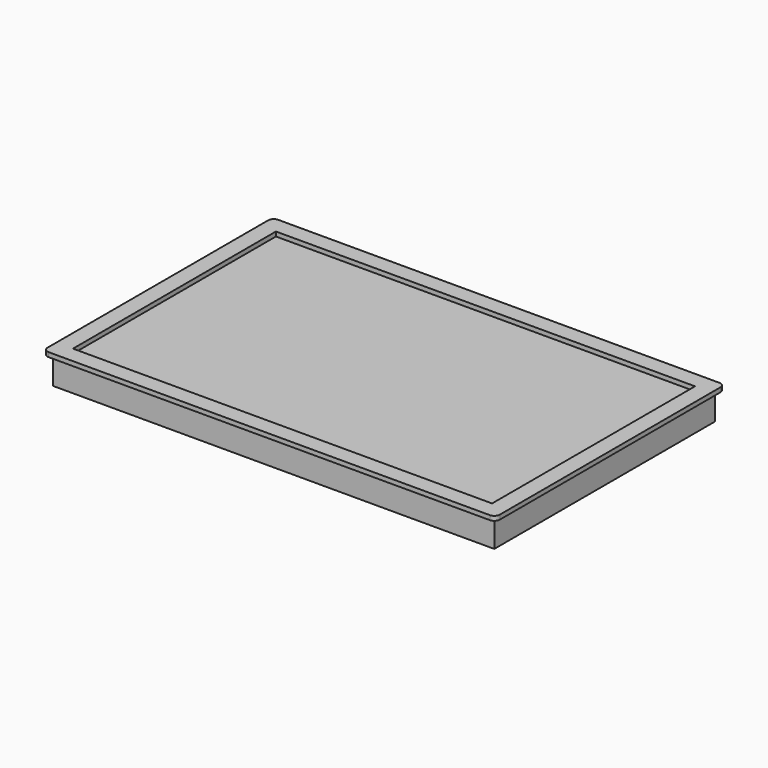
from build123d import *

# Parameters (mm, degrees)
F0_W     = 400
F0_H     = 250
F1_DEPTH = 25
F2_W     = 410
F2_H     = 260
F2_W_2   = 380
F2_H_2   = 230
F3_DEPTH = 4
F4_R     = 5


with BuildPart() as f1:
    # F0 (on Top) → F1 (new body)
    with BuildSketch(Plane.XY):
        Rectangle(F0_W, F0_H)
    extrude(amount=F1_DEPTH)


with BuildPart() as f3:
    # F2 (on face) → F3 (new body)
    with BuildSketch(Plane.XY.offset(25)):
        Rectangle(F2_W, F2_H)
        Rectangle(F2_W_2, F2_H_2, mode=Mode.SUBTRACT)
    extrude(amount=F3_DEPTH)

    # F4
    f4_edges = [f3.edges().sort_by_distance(p)[0] for p in [
        (-205, -130, 27),
        (-205, 130, 27),
        (205, -130, 27),
        (205, 130, 27),
    ]]
    fillet(f4_edges, radius=F4_R)


solid = Compound([f1.part, f3.part])
